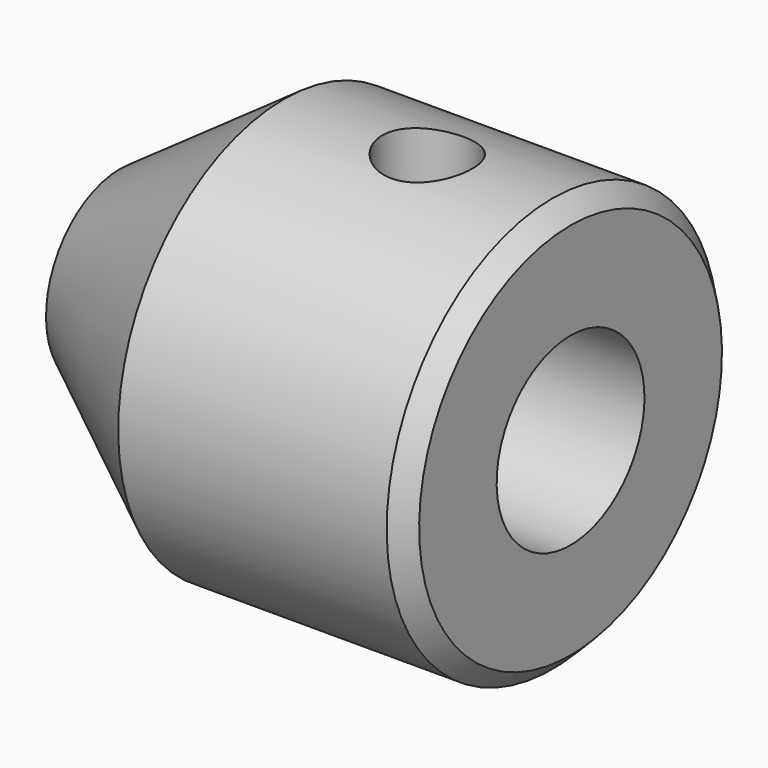
from build123d import *

# Parameters (mm, degrees)
F3_D     = 5
F3_DEPTH = 11.501
F4_SIZE  = 1


with BuildPart() as f1:
    # F0 (on Front) → F1 (revolve)
    with BuildSketch(Plane.XZ):
        Polygon((-15.895556457, 11.5), (-25, 5.125), (0, 5.125), (0, 11.5), align=None)
    revolve(axis=Axis((-30.6950435042, 0, 0), (1, 0, 0)))

    # F3 (through all, one way)
    with BuildSketch(Plane(origin=(0, 0, 0), x_dir=(1, 0, 0), z_dir=(0, 0, -1))):
        with Locations((-7.9477782285, 0)):
            Circle(F3_D / 2)
    extrude(amount=-F3_DEPTH, mode=Mode.SUBTRACT)

    # F4
    f4_edges = [f1.edges().sort_by_distance(p)[0] for p in [
        (0, 0, -11.5),
    ]]
    chamfer(f4_edges, length=F4_SIZE)


solid = f1.part
